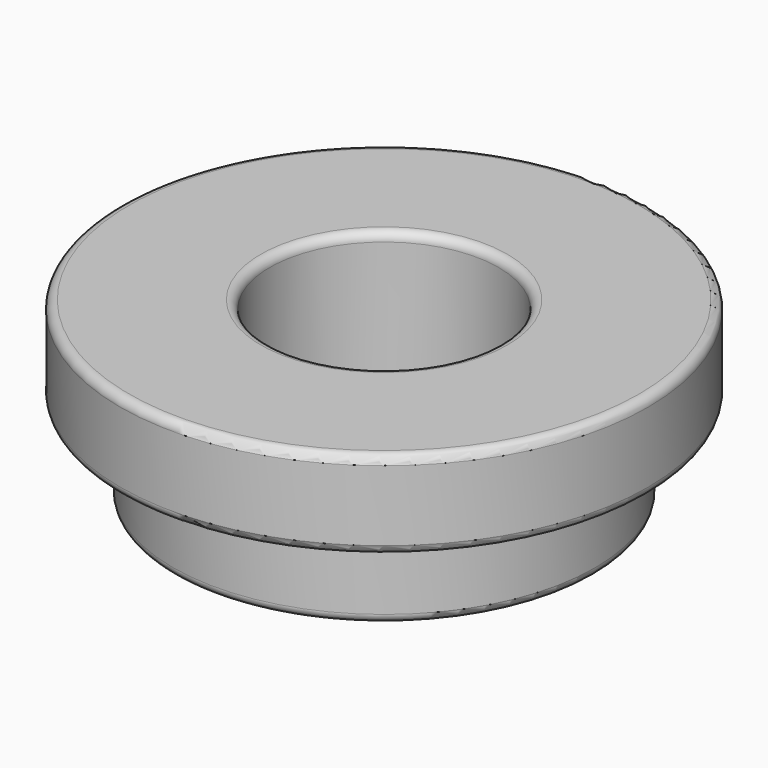
from build123d import *

# Parameters (mm, degrees)
SKETCH_R      = 24
SKETCH_R_2    = 13
PAD_DEPTH     = 10
SKETCH001_R   = 30
SKETCH001_R_2 = 13
PAD001_DEPTH  = 10
FILLET_R      = 1
FILLET001_R   = 1


with BuildPart() as part:
    # Sketch → Pad (new body)
    with BuildSketch(Plane.XY):
        Circle(SKETCH_R)
        Circle(SKETCH_R_2, mode=Mode.SUBTRACT)
    extrude(amount=PAD_DEPTH)

    # Sketch001 (on Face4 of Pad) → Pad001 (join)
    with BuildSketch(Plane.XY.offset(10)):
        Circle(SKETCH001_R)
        Circle(SKETCH001_R_2, mode=Mode.SUBTRACT)
    extrude(amount=PAD001_DEPTH)

    # Fillet
    fillet_edges = [part.edges().sort_by_distance(p)[0] for p in [
        (-24, 0, 0),
        (-30, 0, 10),
        (-30, 0, 20),
        (-24, 0, 10),
    ]]
    fillet(fillet_edges, radius=FILLET_R)

    # Fillet001
    fillet001_edges = [part.edges().sort_by_distance(p)[0] for p in [
        (-13, 0, 0),
        (-13, 0, 20),
    ]]
    fillet(fillet001_edges, radius=FILLET001_R)


solid = part.part
